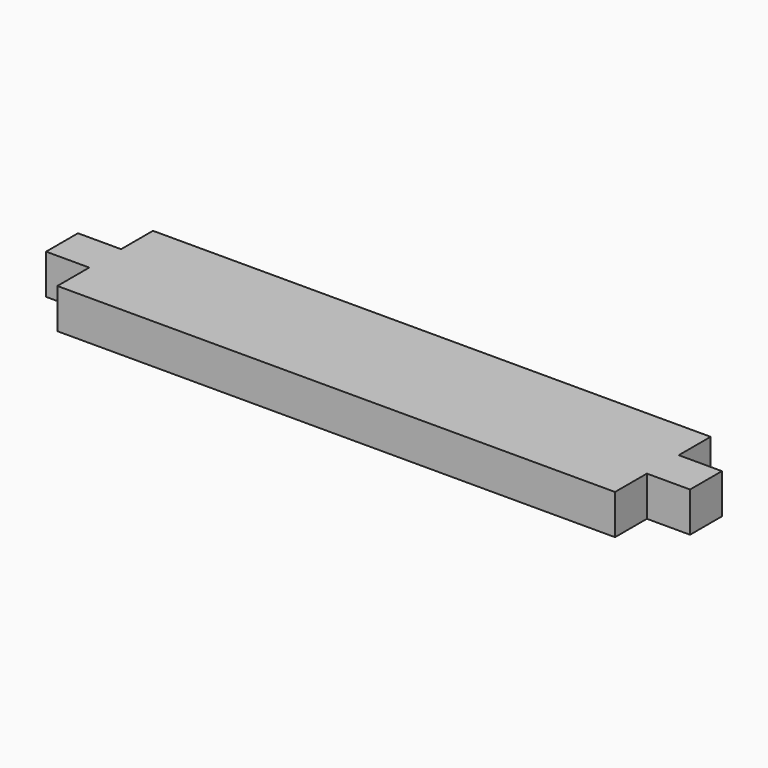
from build123d import *

# Parameters (mm, degrees)
F0_W     = 307.975
F0_H     = 57.15
F1_DEPTH = 9.525
F2_W     = 20.6375
F2_H     = 19.05
F3_DEPTH = 19.051


with BuildPart() as f1:
    # F0 (on Top) → F1 (new body, symmetric)
    with BuildSketch(Plane.XY):
        Rectangle(F0_W, F0_H)
    extrude(amount=F1_DEPTH, both=True)

    # F2 (on face) → F3 (cut, through all)
    with BuildSketch(Plane.XY.offset(9.525)):
        with Locations((-143.66875, 19.05)):
            Rectangle(F2_W, F2_H)
        with Locations((-143.66875, -19.05)):
            Rectangle(F2_W, F2_H)
        with Locations((143.66875, 19.05)):
            Rectangle(F2_W, F2_H)
        with Locations((143.66875, -19.05)):
            Rectangle(F2_W, F2_H)
    extrude(amount=-F3_DEPTH, mode=Mode.SUBTRACT)


solid = f1.part
